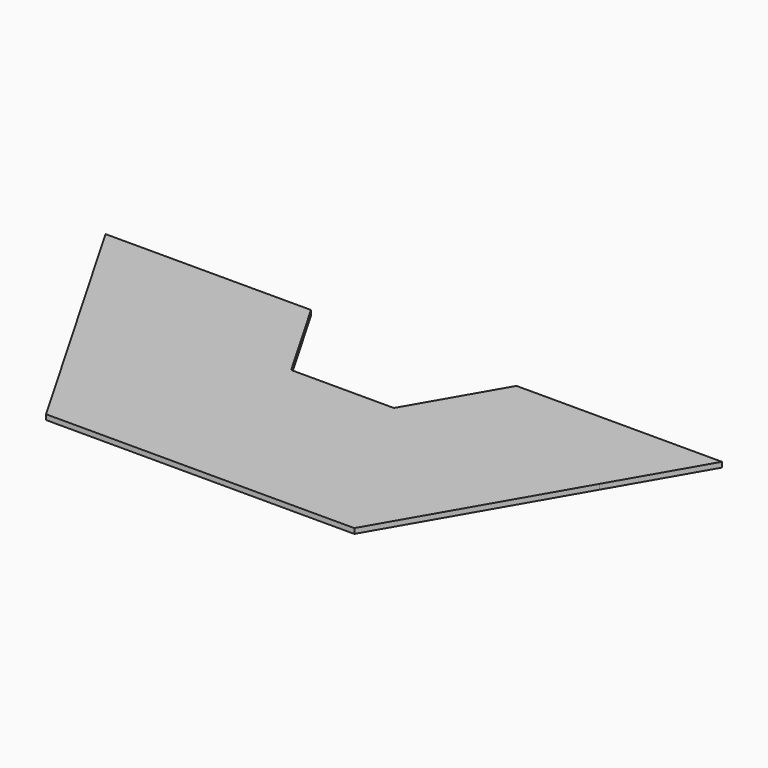
from build123d import *

# Parameters (mm, degrees)
F2_DEPTH = 20


with BuildPart() as f2:
    # F1 (on offset) → F2 (new body)
    with BuildSketch(Plane.XY.offset(800)):
        Polygon((-200, 346.410162), (0, 0), (200, 346.410162), align=None)
        Polygon((-1000, 346.410162), (-600, 346.410162), (-800, 692.820323), align=None)
        Polygon((200, 346.410162), (0, 0), (400, 0), align=None)
        Polygon((-200, -346.410162), (0, 0), (-400, 0), align=None)
        Polygon((-800, 0), (-600, 346.410162), (-1000, 346.410162), align=None)
        Polygon((1200, 692.820323), (800, 692.820323), (1000, 346.410162), align=None)
        Polygon((-400, 0), (0, 0), (-200, 346.410162), align=None)
        Polygon((-1000, 346.410162), (-800, 692.820323), (-1200, 692.820323), align=None)
        Polygon((400, 692.820323), (200, 346.410162), (600, 346.410162), align=None)
        Polygon((800, 692.820323), (400, 692.820323), (600, 346.410162), align=None)
        Polygon((1000, 346.410162), (600, 346.410162), (800, 0), align=None)
        Polygon((400, 0), (0, 0), (200, -346.410162), align=None)
        Polygon((200, -346.410162), (0, 0), (-200, -346.410162), align=None)
        Polygon((800, 0), (400, 0), (600, -346.410162), align=None)
        Polygon((600, -346.410162), (400, 0), (200, -346.410162), align=None)
        Polygon((-800, 692.820323), (-600, 346.410162), (-400, 692.820323), align=None)
        Polygon((-600, -346.410162), (-200, -346.410162), (-400, 0), align=None)
        Polygon((-600, -346.410162), (-400, 0), (-800, 0), align=None)
        Polygon((-600, 346.410162), (-200, 346.410162), (-400, 692.820323), align=None)
        Polygon((-400, 0), (-200, 346.410162), (-600, 346.410162), align=None)
        Polygon((600, 346.410162), (200, 346.410162), (400, 0), align=None)
        Polygon((800, 692.820323), (600, 346.410162), (1000, 346.410162), align=None)
        Polygon((-800, 0), (-400, 0), (-600, 346.410162), align=None)
        Polygon((600, 346.410162), (400, 0), (800, 0), align=None)
    extrude(amount=-F2_DEPTH)


solid = f2.part
